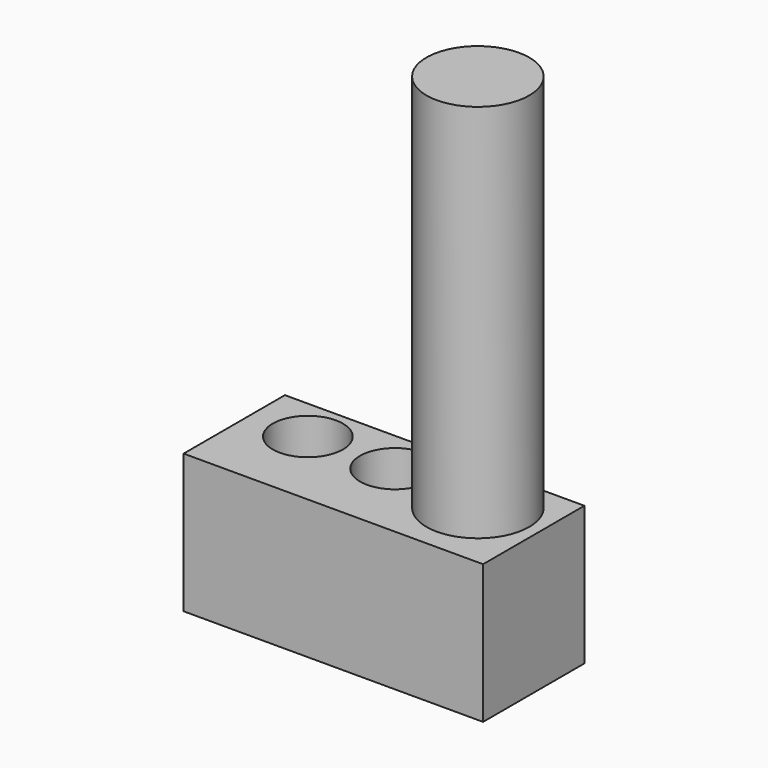
from build123d import *

# Parameters (mm, degrees)
F0_W     = 60.075765
F0_H     = 27.85331
F1_DEPTH = 25.4
F2_R     = 7.011895
F2_R_2   = 7.03539
F3_DEPTH = 50.8
F4_R     = 10.314732
F5_DEPTH = 76.2


with BuildPart() as f1:
    # F0 (on Front) → F1 (new body)
    with BuildSketch(Plane.XZ):
        with Locations((6.007575, 1.092287)):
            Rectangle(F0_W, F0_H)
    extrude(amount=F1_DEPTH)

    # F2 (on face) → F3 (cut)
    with BuildSketch(Plane.XY.offset(15.018942)):
        with Locations((5.026927, -8.720485)):
            Circle(F2_R)
        with Locations((-12.451476, -8.720485)):
            Circle(F2_R_2)
    extrude(amount=-F3_DEPTH, mode=Mode.SUBTRACT)

    # F4 (on face) → F5 (join)
    with BuildSketch(Plane.XY.offset(15.018942)):
        with Locations((23.480423, -11.001698)):
            Circle(F4_R)
    extrude(amount=F5_DEPTH)


solid = f1.part
